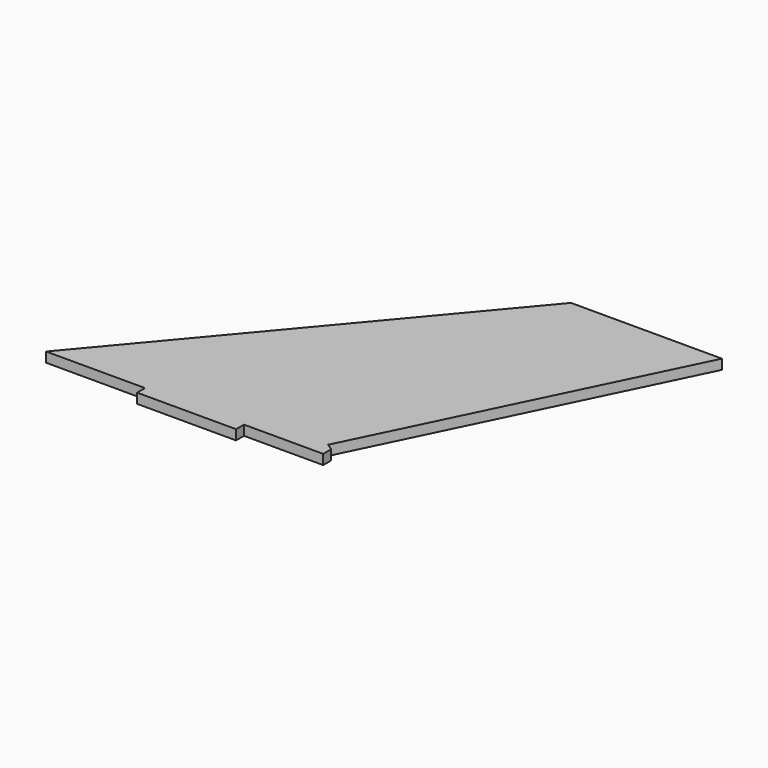
from build123d import *

# Parameters (mm, degrees)
PAD003_DEPTH = 5


with BuildPart() as part:
    # Sketch003 → Pad003 (new body)
    with BuildSketch(Plane.XY):
        with BuildLine():
            add(Edge.make_bspline(
                [(643.726206, -613.567651), (693.714816, -613.567651)],
                knots=[0, 0, 141.7, 141.7], degree=1))
            add(Edge.make_bspline(
                [(693.714816, -613.567651), (693.714816, -618.577095)],
                knots=[0, 0, 14.2, 14.2], degree=1))
            add(Edge.make_bspline(
                [(693.714816, -618.577095), (743.703426, -618.577095)],
                knots=[0, 0, 141.7, 141.7], degree=1))
            add(Edge.make_bspline(
                [(743.703426, -618.577095), (743.703426, -613.567651)],
                knots=[0, 0, 14.2, 14.2], degree=1))
            add(Edge.make_bspline(
                [(743.703426, -613.567651), (783.708425, -613.567651)],
                knots=[0, 0, 113.4, 113.4], degree=1))
            add(Edge.make_bspline(
                [(783.708425, -613.567651), (783.708425, -608.558207)],
                knots=[0, 0, 14.2, 14.2], degree=1))
            add(Edge.make_bspline(
                [(783.708425, -608.558207), (780.357036, -606.265151)],
                knots=[0, 0, 11.510864, 11.510864], degree=1))
            add(Edge.make_bspline(
                [(780.357036, -606.265151), (855.710368, -451.783766)],
                knots=[0, 0, 487.21799, 487.21799], degree=1))
            add(Edge.make_bspline(
                [(855.710368, -451.783766), (779.475092, -451.783766)],
                knots=[0, 0, 216.1, 216.1], degree=1))
            add(Edge.make_bspline(
                [(643.726206, -613.567651), (779.475092, -451.783766)],
                knots=[0, 0, 598.652654, 598.652654], degree=1))
        make_face()
    extrude(amount=PAD003_DEPTH)


solid = part.part
